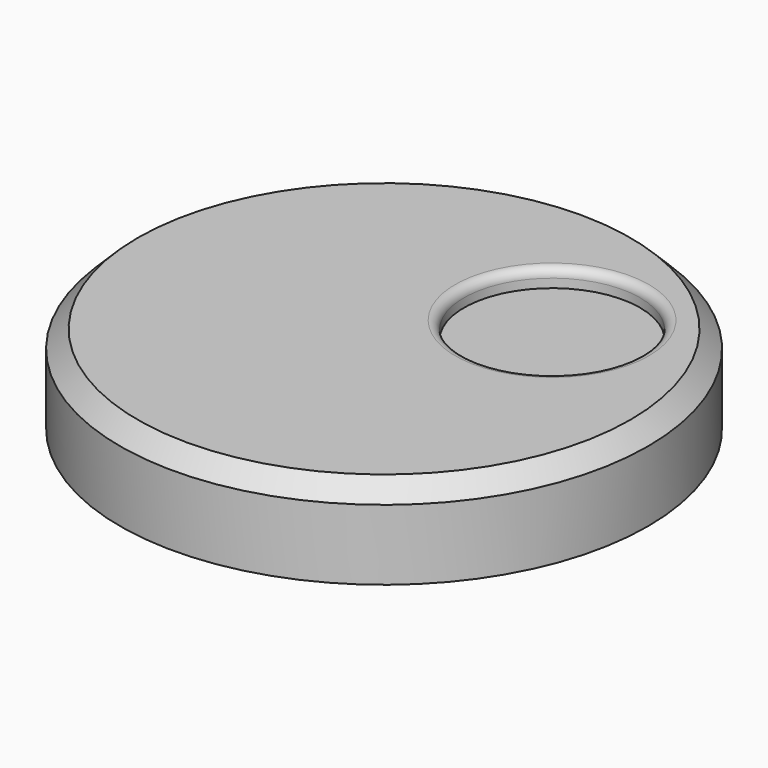
from build123d import *

# Parameters (mm, degrees)
SKETCH_R      = 4.5
PAD_DEPTH     = 3
SKETCH001_R   = 15
PAD001_DEPTH  = 2
SKETCH002_R   = 15
SKETCH002_R_2 = 13
PAD002_DEPTH  = 3
SKETCH003_R   = 5
POCKET_DEPTH  = 1
FILLET_R      = 0.5
CHAMFER_SIZE  = 1


with BuildPart() as part:
    # Sketch → Pad (new body)
    with BuildSketch(Plane.XY):
        Circle(SKETCH_R)
        with BuildLine():
            ThreePointArc((-2.059126, 2.25), (0, -3.05), (2.059126, 2.25))
            Line((-2.059126, 2.25), (2.059126, 2.25))
        make_face(mode=Mode.SUBTRACT)
    extrude(amount=PAD_DEPTH)

    # Sketch001 (on Face5 of Pad) → Pad001 (join)
    with BuildSketch(Plane.XY.offset(3)):
        Circle(SKETCH001_R)
    extrude(amount=PAD001_DEPTH)

    # Sketch002 (on Face2 of Pad001) → Pad002 (join)
    with BuildSketch(Plane(origin=(0, 0, 3), x_dir=(1, 0, 0), z_dir=(0, 0, -1))):
        Circle(SKETCH002_R)
        Circle(SKETCH002_R_2, mode=Mode.SUBTRACT)
    extrude(amount=PAD002_DEPTH)

    # Sketch003 (on Face3 of Pad002) → Pocket (cut)
    with BuildSketch(Plane.XY.offset(5)):
        with Locations((5.303301, 5.303301)):
            Circle(SKETCH003_R)
    extrude(amount=-POCKET_DEPTH, mode=Mode.SUBTRACT)

    # Fillet
    fillet_edges = [part.edges().sort_by_distance(p)[0] for p in [
        (0.303301, 5.303301, 5),
    ]]
    fillet(fillet_edges, radius=FILLET_R)

    # Chamfer
    chamfer_edges = [part.edges().sort_by_distance(p)[0] for p in [
        (-15, 0, 5),
    ]]
    chamfer(chamfer_edges, length=CHAMFER_SIZE)


solid = part.part
